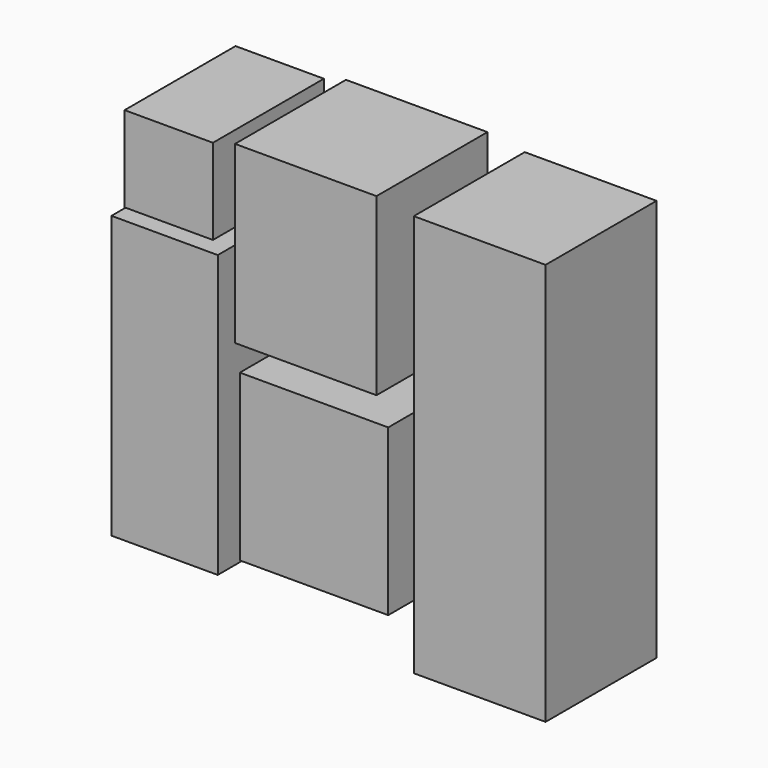
from build123d import *

# Parameters (mm, degrees)
F0_W     = 51.823223
F0_H     = 64.21024
F0_W_2   = 38.930615
F0_H_2   = 103.140849
F0_W_3   = 54.351189
F0_H_3   = 60.544692
F0_W_4   = 48.284073
F0_H_4   = 147.380188
F0_W_5   = 32.357913
F0_H_5   = 31.346727
F1_DEPTH = 50.8


with BuildPart() as f1:
    # F0 (on Front) → F1 (new body)
    with BuildSketch(Plane.XZ):
        with Locations((3.159952, 41.079385)):
            Rectangle(F0_W, F0_H)
        with Locations((-48.536871, -16.305355)):
            Rectangle(F0_W_2, F0_H_2)
        with Locations((6.193507, -30.272346)):
            Rectangle(F0_W_3, F0_H_3)
        with Locations((66.8646, -2.52796)):
            Rectangle(F0_W_4, F0_H_4)
        with Locations((-47.020094, 55.235972)):
            Rectangle(F0_W_5, F0_H_5)
        with Locations((-47.020094, 55.235972)):
            Rectangle(F0_W_5, F0_H_5)
    extrude(amount=F1_DEPTH)


solid = f1.part
